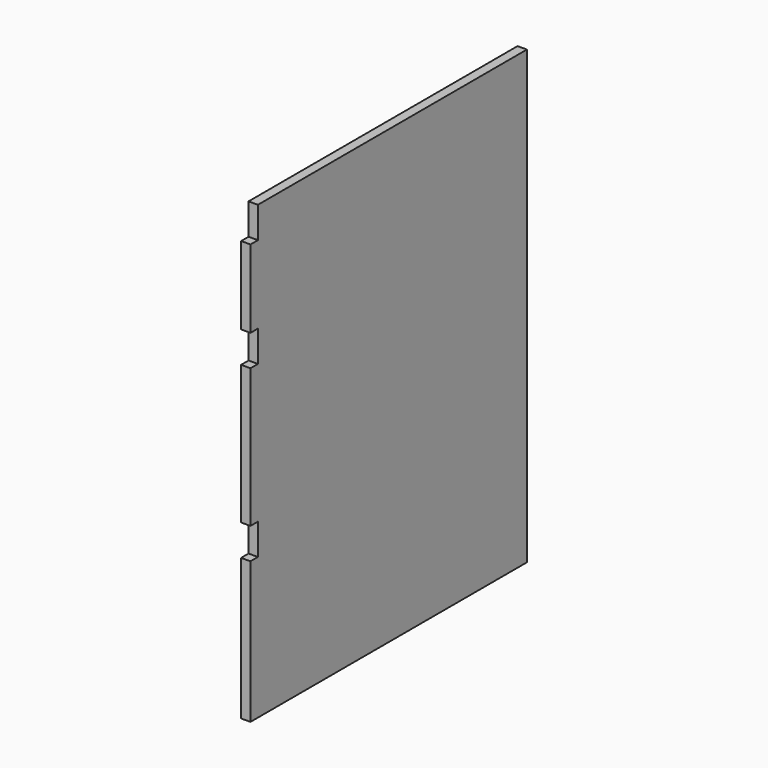
from build123d import *

# Parameters (mm, degrees)
F0_W     = 666
F0_H     = 870
F1_DEPTH = 18
F2_W     = 18
F2_H     = 60
F3_DEPTH = 18


with BuildPart() as f1:
    # F0 (on Right) → F1 (new body)
    with BuildSketch(Plane.YZ):
        Rectangle(F0_W, F0_H)
    extrude(amount=F1_DEPTH)

    # F2 (on face) → F3 (cut)
    with BuildSketch(Plane.YZ.offset(18)):
        with Locations((-324, 405)):
            Rectangle(F2_W, F2_H)
        with Locations((-324, 195)):
            Rectangle(F2_W, F2_H)
        with Locations((-324, -132.5)):
            Rectangle(F2_W, F2_H)
    extrude(amount=-F3_DEPTH, mode=Mode.SUBTRACT)


solid = f1.part
